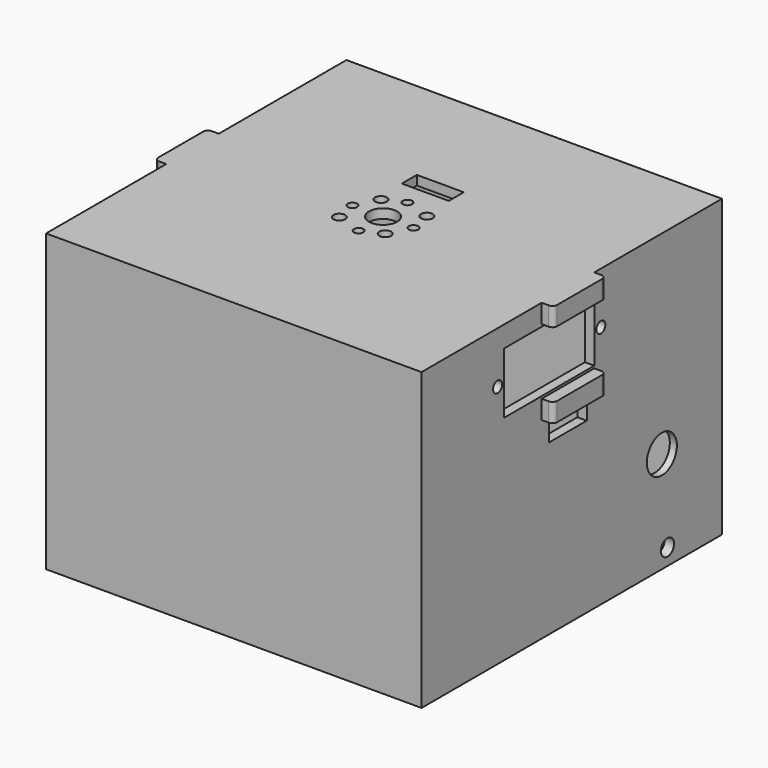
from build123d import *

# Parameters (mm, degrees)
BOX066_W                  = 10
BOX066_H                  = 4
BOX066_DEPTH              = 10
CYLINDER084_R             = 3
CYLINDER084_DEPTH         = 13
CYLINDER084_ROLL_ANGLE    = 90
CYLINDER087_R             = 1.25
CYLINDER087_DEPTH         = 22
CYLINDER087_PITCH_ANGLE   = 90
CYLINDER088_R             = 1.25
CYLINDER088_DEPTH         = 22
CYLINDER088_PITCH_ANGLE   = 90
CYLINDER086_R             = 1.25
CYLINDER086_DEPTH         = 22
CYLINDER086_PITCH_ANGLE   = 90
CYLINDER085_R             = 1.25
CYLINDER085_DEPTH         = 22
CYLINDER085_PITCH_ANGLE   = 90
FUSION063_ROLL_ANGLE      = 34
FUSION063_PLACEMENT_ANGLE = -90
FUSION064_ROLL_ANGLE      = 90
BOX065_W                  = 10
BOX065_H                  = 94
BOX065_DEPTH              = 4
BOX062_W                  = 14
BOX062_H                  = 3
BOX062_DEPTH              = 4
BOX061_W                  = 14
BOX061_H                  = 3
BOX061_DEPTH              = 4
BOX063_W                  = 14
BOX063_H                  = 3
BOX063_DEPTH              = 4
BOX064_W                  = 14
BOX064_H                  = 3
BOX064_DEPTH              = 4
SKETCH017_R               = 1.2
SKETCH017_W               = 24
SKETCH017_H               = 13
PAD012_DEPTH              = 140
CYLINDER080_R             = 6
CYLINDER080_DEPTH         = 31
CYLINDER080_ROLL_ANGLE    = 90
CYLINDER078_R             = 1.75
CYLINDER078_DEPTH         = 31
CYLINDER078_ROLL_ANGLE    = 90
BOX059_W                  = 17
BOX059_H                  = 77
BOX059_DEPTH              = 49
FILLET018013005_R         = 2
CYLINDER083_R             = 4
CYLINDER083_DEPTH         = 31
CYLINDER083_ROLL_ANGLE    = 90
CYLINDER079_R             = 1.75
CYLINDER079_DEPTH         = 31
CYLINDER079_ROLL_ANGLE    = 90
BOX058_W                  = 8
BOX058_H                  = 24
BOX058_DEPTH              = 11
BOX057_W                  = 76
BOX057_H                  = 76
BOX057_DEPTH              = 66
FILLET018013003_R         = 3.5
BOX060_W                  = 80
BOX060_H                  = 80
BOX060_DEPTH              = 63
FILLET018013006_R         = 1
CLONE024_PLACEMENT_ANGLE  = -90
SKETCH021_R               = 1
POCKET017_DEPTH           = 2


with BuildPart() as cubo012:
    # Box066 → Box066 (new body)
    with BuildSketch(Plane(origin=(-244, 64, 124), x_dir=(1, 0, 0), z_dir=(0, 0, 1))):
        with Locations((5, 2)):
            Rectangle(BOX066_W, BOX066_H)
    extrude(amount=BOX066_DEPTH)


with BuildPart() as cilindro019:
    # Cylinder084 → Cylinder084 (new body)
    with BuildSketch(Plane.XY):
        Circle(CYLINDER084_R)
    extrude(amount=CYLINDER084_DEPTH)


with BuildPart() as cilindro019_1:
    # Cylinder084 roll: moved
    add(cilindro019.part.rotate(Axis((0, 0, 0), (1, 0, 0)), CYLINDER084_ROLL_ANGLE))


with BuildPart() as cilindro019_2:
    # Cylinder084 placement: moved
    add(cilindro019_1.part.moved(Location((17.25, -6, 120))))


with BuildPart() as cilindro022:
    # Cylinder087 → Cylinder087 (new body)
    with BuildSketch(Plane.XY):
        Circle(CYLINDER087_R)
    extrude(amount=CYLINDER087_DEPTH)


with BuildPart() as cilindro022_1:
    # Cylinder087 pitch: moved
    add(cilindro022.part.rotate(Axis((0, 0, 0), (0, 1, 0)), CYLINDER087_PITCH_ANGLE))


with BuildPart() as cilindro022_2:
    # Cylinder087 placement: moved
    add(cilindro022_1.part.moved(Location((20.25, -38, 124.25))))


with BuildPart() as cilindro023:
    # Cylinder088 → Cylinder088 (new body)
    with BuildSketch(Plane.XY):
        Circle(CYLINDER088_R)
    extrude(amount=CYLINDER088_DEPTH)


with BuildPart() as cilindro023_1:
    # Cylinder088 pitch: moved
    add(cilindro023.part.rotate(Axis((0, 0, 0), (0, 1, 0)), CYLINDER088_PITCH_ANGLE))


with BuildPart() as cilindro023_2:
    # Cylinder088 placement: moved
    add(cilindro023_1.part.moved(Location((20.25, -26, 127.25))))


with BuildPart() as cilindro021:
    # Cylinder086 → Cylinder086 (new body)
    with BuildSketch(Plane.XY):
        Circle(CYLINDER086_R)
    extrude(amount=CYLINDER086_DEPTH)


with BuildPart() as cilindro021_1:
    # Cylinder086 pitch: moved
    add(cilindro021.part.rotate(Axis((0, 0, 0), (0, 1, 0)), CYLINDER086_PITCH_ANGLE))


with BuildPart() as cilindro021_2:
    # Cylinder086 placement: moved
    add(cilindro021_1.part.moved(Location((20.25, -30, 118.75))))


with BuildPart() as fusion064:
    # Cylinder085 → Cylinder085 (new body)
    with BuildSketch(Plane.XY):
        Circle(CYLINDER085_R)
    extrude(amount=CYLINDER085_DEPTH)


with BuildPart() as fusion064_1:
    # Cylinder085 pitch: moved
    add(fusion064.part.rotate(Axis((0, 0, 0), (0, 1, 0)), CYLINDER085_PITCH_ANGLE))


with BuildPart() as fusion064_2:
    # Cylinder085 placement: moved
    add(fusion064_1.part.moved(Location((20.25, -34, 132.75))))

    # Fusion063: union Cilindro022, Cilindro023, Cilindro021
    add(cilindro022_2.part)
    add(cilindro023_2.part)
    add(cilindro021_2.part)


with BuildPart() as fusion064_3:
    # Fusion063 roll: moved
    add(fusion064_2.part.rotate(Axis((0, 0, 0), (1, 0, 0)), FUSION063_ROLL_ANGLE))


with BuildPart() as fusion064_4:
    # Fusion063 placement: moved
    add(fusion064_3.part.moved(Location((114.107998, 21, 33.646227))).rotate(Axis((114.107998, 21, 33.646227), (0, 0, 1)), FUSION063_PLACEMENT_ANGLE))

    # Fusion064: union Cilindro019
    add(cilindro019_2.part)


with BuildPart() as fusion064_5:
    # Fusion064 roll: moved
    add(fusion064_4.part.rotate(Axis((0, 0, 0), (1, 0, 0)), FUSION064_ROLL_ANGLE))


with BuildPart() as fusion064_6:
    # Fusion064 placement: moved
    add(fusion064_5.part.moved(Location((-256.25, 172.75, 144))))


with BuildPart() as cubo:
    # Box065 → Box065 (new body)
    with BuildSketch(Plane(origin=(13, -11, 104), x_dir=(1, 0, 0), z_dir=(0, 0, 1))):
        with Locations((5, 47)):
            Rectangle(BOX065_W, BOX065_H)
    extrude(amount=BOX065_DEPTH)


with BuildPart() as cubo009:
    # Box062 → Box062 (new body)
    with BuildSketch(Plane(origin=(11, 75.5, 127), x_dir=(1, 0, 0), z_dir=(0, 0, 1))):
        with Locations((7, 1.5)):
            Rectangle(BOX062_W, BOX062_H)
    extrude(amount=BOX062_DEPTH)


with BuildPart() as cubo008:
    # Box061 → Box061 (new body)
    with BuildSketch(Plane(origin=(11, 75.5, 109), x_dir=(1, 0, 0), z_dir=(0, 0, 1))):
        with Locations((7, 1.5)):
            Rectangle(BOX061_W, BOX061_H)
    extrude(amount=BOX061_DEPTH)


with BuildPart() as cubo010:
    # Box063 → Box063 (new body)
    with BuildSketch(Plane(origin=(11, -6.5, 109), x_dir=(1, 0, 0), z_dir=(0, 0, 1))):
        with Locations((7, 1.5)):
            Rectangle(BOX063_W, BOX063_H)
    extrude(amount=BOX063_DEPTH)


with BuildPart() as cubo011:
    # Box064 → Box064 (new body)
    with BuildSketch(Plane(origin=(11, -6.5, 127), x_dir=(1, 0, 0), z_dir=(0, 0, 1))):
        with Locations((7, 1.5)):
            Rectangle(BOX064_W, BOX064_H)
    extrude(amount=BOX064_DEPTH)


with BuildPart() as pad012:
    # Sketch017 → Pad012 (new body)
    with BuildSketch(Plane(origin=(-0.25, -35, 0), x_dir=(1, 0, 0), z_dir=(0, -1, 0))):
        with Locations((37, 120)):
            Circle(SKETCH017_R)
        with Locations((9.5, 120)):
            Circle(SKETCH017_R)
        with Locations((23.25, 120)):
            Rectangle(SKETCH017_W, SKETCH017_H)
    extrude(amount=-PAD012_DEPTH)


with BuildPart() as cylinder107:
    # Cylinder080 → Cylinder080 (new body)
    with BuildSketch(Plane.XY):
        Circle(CYLINDER080_R)
    extrude(amount=CYLINDER080_DEPTH)


with BuildPart() as cylinder107_1:
    # Cylinder080 roll: moved
    add(cylinder107.part.rotate(Axis((0, 0, 0), (1, 0, 0)), CYLINDER080_ROLL_ANGLE))


with BuildPart() as cylinder107_2:
    # Cylinder080 placement: moved
    add(cylinder107_1.part.moved(Location((-4, 11, 83.5))))


with BuildPart() as cylinder105:
    # Cylinder078 → Cylinder078 (new body)
    with BuildSketch(Plane.XY):
        Circle(CYLINDER078_R)
    extrude(amount=CYLINDER078_DEPTH)


with BuildPart() as cylinder105_1:
    # Cylinder078 roll: moved
    add(cylinder105.part.rotate(Axis((0, 0, 0), (1, 0, 0)), CYLINDER078_ROLL_ANGLE))


with BuildPart() as cylinder105_2:
    # Cylinder078 placement: moved
    add(cylinder105_1.part.moved(Location((-8.5, 11, 71.5))))


with BuildPart() as fillet018013005:
    # Box059 → Box059 (new body)
    with BuildSketch(Plane(origin=(-14, -2.5, 75), x_dir=(1, 0, 0), z_dir=(0, 0, 1))):
        with Locations((8.5, 38.5)):
            Rectangle(BOX059_W, BOX059_H)
    extrude(amount=BOX059_DEPTH)

    # Fillet018013005
    fillet018013005_edges = [fillet018013005.edges().sort_by_distance(p)[0] for p in [
        (-14, -2.5, 99.5),
        (-14, 36, 124),
        (-14, 74.5, 99.5),
        (-14, 36, 75),
        (3, -2.5, 99.5),
        (3, 36, 124),
        (3, 74.5, 99.5),
        (3, 36, 75),
        (-5.5, -2.5, 75),
        (-5.5, -2.5, 124),
        (-5.5, 74.5, 75),
        (-5.5, 74.5, 124),
    ]]
    fillet(fillet018013005_edges, radius=FILLET018013005_R)


with BuildPart() as cylinder108:
    # Cylinder083 → Cylinder083 (new body)
    with BuildSketch(Plane.XY):
        Circle(CYLINDER083_R)
    extrude(amount=CYLINDER083_DEPTH)


with BuildPart() as cylinder108_1:
    # Cylinder083 roll: moved
    add(cylinder108.part.rotate(Axis((0, 0, 0), (1, 0, 0)), CYLINDER083_ROLL_ANGLE))


with BuildPart() as cylinder108_2:
    # Cylinder083 placement: moved
    add(cylinder108_1.part.moved(Location((-7, 80, 89.6))))


with BuildPart() as cylinder106:
    # Cylinder079 → Cylinder079 (new body)
    with BuildSketch(Plane.XY):
        Circle(CYLINDER079_R)
    extrude(amount=CYLINDER079_DEPTH)


with BuildPart() as cylinder106_1:
    # Cylinder079 roll: moved
    add(cylinder106.part.rotate(Axis((0, 0, 0), (1, 0, 0)), CYLINDER079_ROLL_ANGLE))


with BuildPart() as cylinder106_2:
    # Cylinder079 placement: moved
    add(cylinder106_1.part.moved(Location((-8.5, 80, 71.5))))


with BuildPart() as fusion061:
    # Box058 → Box058 (new body)
    with BuildSketch(Plane(origin=(-13.5, -13, 95), x_dir=(1, 0, 0), z_dir=(0, 0, 1))):
        with Locations((4, 12)):
            Rectangle(BOX058_W, BOX058_H)
    extrude(amount=BOX058_DEPTH)

    # Fusion061: union Cylinder107, Cylinder105, Fillet018013005, Cylinder108, Cylinder106
    add(cylinder107_2.part)
    add(cylinder105_2.part)
    add(fillet018013005.part)
    add(cylinder108_2.part)
    add(cylinder106_2.part)


with BuildPart() as fillet018013003:
    # Box057 → Box057 (new body)
    with BuildSketch(Plane(origin=(-21, -2, 87), x_dir=(1, 0, 0), z_dir=(0, 0, 1))):
        with Locations((38, 38)):
            Rectangle(BOX057_W, BOX057_H)
    extrude(amount=BOX057_DEPTH)

    # Fillet018013003
    fillet018013003_edges = [fillet018013003.edges().sort_by_distance(p)[0] for p in [
        (-21, -2, 120),
        (-21, 36, 153),
        (-21, 74, 120),
        (55, -2, 120),
        (55, 36, 153),
        (55, 74, 120),
        (17, -2, 153),
        (17, 74, 153),
    ]]
    fillet(fillet018013003_edges, radius=FILLET018013003_R)


with BuildPart() as fillet018013003_1:
    # Fillet018013003 placement: moved
    add(fillet018013003.part.moved(Location((0, 0, -24))))


with BuildPart() as body_more_holes:
    # Box060 → Box060 (new body)
    with BuildSketch(Plane(origin=(-23, -4, 68), x_dir=(1, 0, 0), z_dir=(0, 0, 1))):
        with Locations((40, 40)):
            Rectangle(BOX060_W, BOX060_H)
    extrude(amount=BOX060_DEPTH)

    # Cut103: cut Fillet018013003
    add(fillet018013003_1.part, mode=Mode.SUBTRACT)

    # Cut104: cut Fusion061
    add(fusion061.part, mode=Mode.SUBTRACT)

    # Cut105: cut Pad012
    add(pad012.part, mode=Mode.SUBTRACT)

    # Fusion062: union Cubo009, Cubo008, Cubo010, Cubo011
    add(cubo009.part)
    add(cubo008.part)
    add(cubo010.part)
    add(cubo011.part)

    # Fillet018013006
    fillet018013006_edges = [body_more_holes.edges().sort_by_distance(p)[0] for p in [
        (25, -6.5, 129),
        (11, -6.5, 129),
        (11, -6.5, 111),
        (25, -6.5, 111),
        (25, 78.5, 129),
        (11, 78.5, 129),
        (25, 78.5, 111),
        (11, 78.5, 111),
    ]]
    fillet(fillet018013006_edges, radius=FILLET018013006_R)

    # Cut107: cut Cubo
    add(cubo.part, mode=Mode.SUBTRACT)


with BuildPart() as body_more_holes_1:
    # Clone024 placement: moved
    add(body_more_holes.part.moved(Location((-275, 70, 2))).rotate(Axis((-275, 70, 2), (0, 0, 1)), CLONE024_PLACEMENT_ANGLE))

    # Cut108: cut Fusion064
    add(fusion064_6.part, mode=Mode.SUBTRACT)

    # Cut109: cut Cubo012
    add(cubo012.part, mode=Mode.SUBTRACT)

    # Sketch021 → Pocket017 (cut)
    with BuildSketch(Plane.XY.offset(133)):
        with Locations((-239, 59.25)):
            Circle(SKETCH021_R)
        with Locations((-232.5, 52.75)):
            Circle(SKETCH021_R)
        with Locations((-239, 46.25)):
            Circle(SKETCH021_R)
        with Locations((-245.5, 52.75)):
            Circle(SKETCH021_R)
    extrude(amount=-POCKET017_DEPTH, mode=Mode.SUBTRACT)


solid = body_more_holes_1.part
